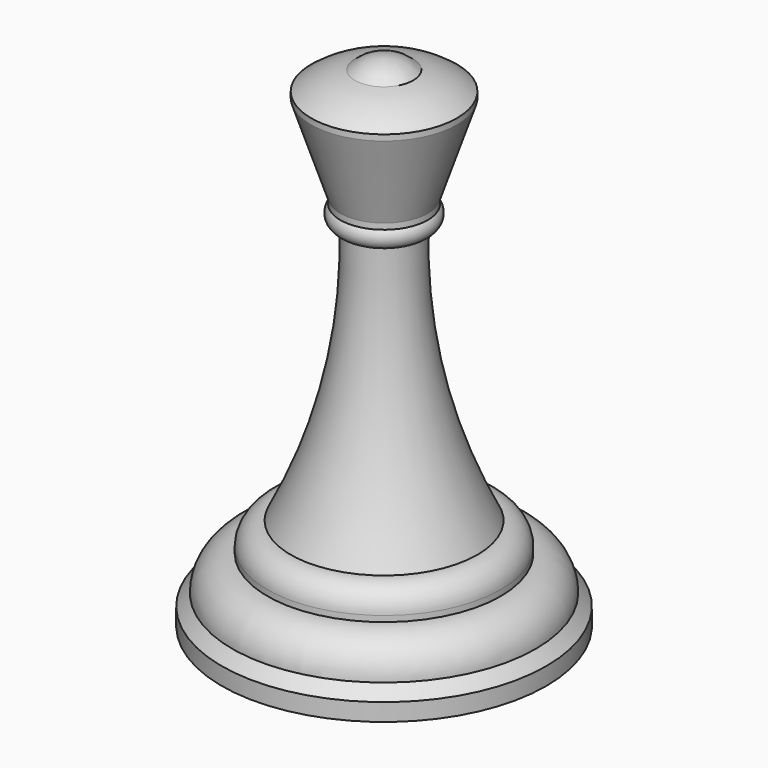
from build123d import *

# Parameters (mm, degrees)
F0_W   = 12.5
F0_H   = 1
F0_W_2 = 7.5
F0_W_3 = 20
F0_W_4 = 27.8234
F0_H_2 = 3


with BuildPart() as f1:
    # F0 (on Front) → F1 (revolve)
    with BuildSketch(Plane.XZ):
        with BuildLine():
            ThreePointArc((5, -2), (2.692582, -0.518544), (0, 0))
            Line((0, 0), (0, -2))
            ThreePointArc((0, -2), (2.5, -1.805503), (5, -2))
        make_face()
        with BuildLine():
            ThreePointArc((12.5, -5.27), (8.960319, -3.152616), (5, -2))
            ThreePointArc((5, -2), (2.5, -1.805503), (0, -2))
            Line((0, -2), (0, -5.27))
            Line((0, -5.27), (12.5, -5.27))
        make_face()
        with Locations((6.25, -5.77)):
            Rectangle(F0_W, F0_H)
        Polygon((7.5, -21.27), (12.5, -6.27), (0, -6.27), (0, -21.27), align=None)
        with Locations((3.75, -21.77)):
            Rectangle(F0_W_2, F0_H)
        with BuildLine():
            ThreePointArc((6, -25.59), (7.820079, -24.413469), (7.5, -22.27))
            Line((7.5, -22.27), (0, -22.27))
            Line((0, -22.27), (0, -25.59))
            Line((0, -25.59), (6, -25.59))
        make_face()
        with BuildLine():
            ThreePointArc((16, -70.02), (8.171845, -48.441542), (6, -25.59))
            Line((6, -25.59), (0, -25.59))
            Line((0, -25.59), (0, -73.969878))
            Line((0, -73.969878), (20, -73.969878))
            ThreePointArc((20, -73.969878), (18.810853, -71.173797), (16, -70.02))
        make_face()
        with Locations((10, -74.469878)):
            Rectangle(F0_W_3, F0_H)
        with BuildLine():
            Line((20, -74.969878), (0, -74.969878))
            Line((0, -74.969878), (0, -80.969878))
            Line((0, -80.969878), (26, -80.969878))
            ThreePointArc((26, -80.969878), (24.242641, -76.727238), (20, -74.969878))
        make_face()
        Polygon((26, -80.969878), (0, -80.969878), (0, -82.969878), (27.8234, -82.969878), align=None)
        with Locations((13.9117, -84.469878)):
            Rectangle(F0_W_4, F0_H_2)
    revolve(axis=Axis((0, 0, -42.984939), (0, 0, 1)))


solid = f1.part
